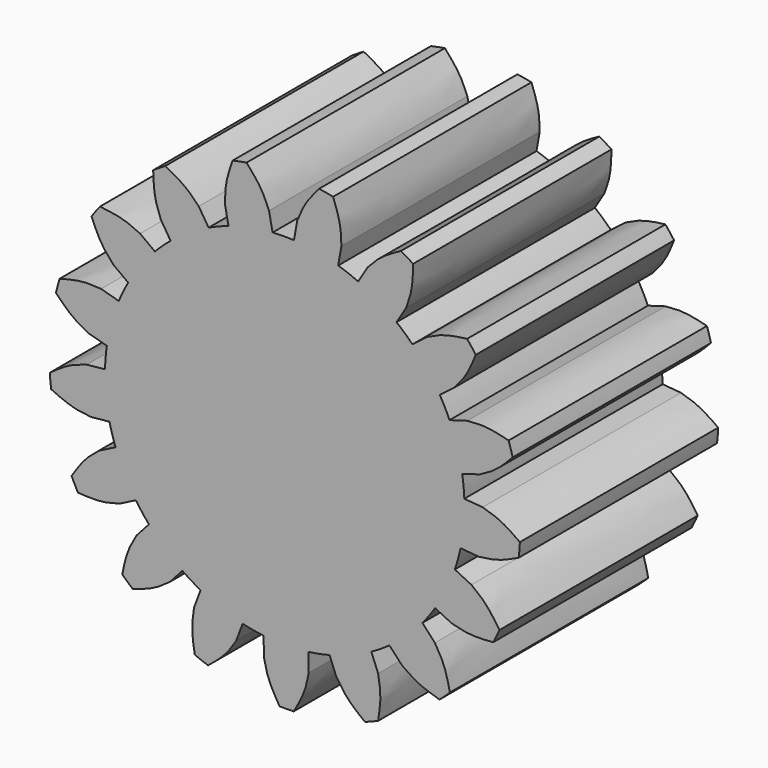
from build123d import *

# Parameters (mm, degrees)
F1_DEPTH = 25
F3_COUNT = 17
F4_DEPTH = 25


with BuildPart() as f1:
    # F0 (on Front) → F1 (new body)
    with BuildSketch(Plane.XZ):
        with BuildLine():
            add(Edge.make_bspline(
                [(-1.579642907, 19.9058898372), (-1.6117271892, 19.978475067), (-1.6986313414, 20.1750809257), (-2.0029837628, 20.9497765357), (-2.6554190206, 22.069680057), (-3.4281862346, 22.9560580116), (-3.8469371657, 23.4363728943)],
                knots=[0, 0, 0, 0, 0.1330072892, 0.3602663017, 0.6533379302, 1, 1, 1, 1], degree=3))
            ThreePointArc((-3.8469371657, 23.4363728943), (-4.5519149342, 23.3097097887), (-5.2527525556, 23.1618455782))
            add(Edge.make_bspline(
                [(-6.0252624513, 19.037750243), (-6.0228428036, 19.1170733926), (-6.0162888955, 19.3319297204), (-6.0257468099, 20.1642122641), (-5.8425661112, 21.4472946832), (-5.4600385098, 22.559278352), (-5.2527525556, 23.1618455782)],
                knots=[0, 0, 0, 0, 0.1330072892, 0.3602663017, 0.6533379302, 1, 1, 1, 1], degree=3))
            Line((-6.0252624513, 19.037750243), (-5.6694134652, 17.2154981328))
            ThreePointArc((-5.6694134652, 17.2154981328), (-3.4738298182, 17.7889890492), (-1.2237939209, 18.0836377269))
            Line((-1.2237939209, 18.0836377269), (-1.579642907, 19.9058898372))
        make_face()
    extrude(amount=F1_DEPTH)


with BuildPart() as f3_1:
    # F3: instance of F1
    add(f1.part.rotate(Axis((0, -18.5406561941, 0), (0, -1, 0)), 1 * 360 / F3_COUNT))


with BuildPart() as f3_2:
    # F3: instance of F1
    add(f1.part.rotate(Axis((0, -18.5406561941, 0), (0, -1, 0)), 2 * 360 / F3_COUNT))


with BuildPart() as f3_3:
    # F3: instance of F1
    add(f1.part.rotate(Axis((0, -18.5406561941, 0), (0, -1, 0)), 3 * 360 / F3_COUNT))


with BuildPart() as f3_4:
    # F3: instance of F1
    add(f1.part.rotate(Axis((0, -18.5406561941, 0), (0, -1, 0)), 4 * 360 / F3_COUNT))


with BuildPart() as f3_5:
    # F3: instance of F1
    add(f1.part.rotate(Axis((0, -18.5406561941, 0), (0, -1, 0)), 5 * 360 / F3_COUNT))


with BuildPart() as f3_6:
    # F3: instance of F1
    add(f1.part.rotate(Axis((0, -18.5406561941, 0), (0, -1, 0)), 6 * 360 / F3_COUNT))


with BuildPart() as f3_7:
    # F3: instance of F1
    add(f1.part.rotate(Axis((0, -18.5406561941, 0), (0, -1, 0)), 7 * 360 / F3_COUNT))


with BuildPart() as f3_8:
    # F3: instance of F1
    add(f1.part.rotate(Axis((0, -18.5406561941, 0), (0, -1, 0)), 8 * 360 / F3_COUNT))


with BuildPart() as f3_9:
    # F3: instance of F1
    add(f1.part.rotate(Axis((0, -18.5406561941, 0), (0, -1, 0)), 9 * 360 / F3_COUNT))


with BuildPart() as f3_10:
    # F3: instance of F1
    add(f1.part.rotate(Axis((0, -18.5406561941, 0), (0, -1, 0)), 10 * 360 / F3_COUNT))


with BuildPart() as f3_11:
    # F3: instance of F1
    add(f1.part.rotate(Axis((0, -18.5406561941, 0), (0, -1, 0)), 11 * 360 / F3_COUNT))


with BuildPart() as f3_12:
    # F3: instance of F1
    add(f1.part.rotate(Axis((0, -18.5406561941, 0), (0, -1, 0)), 12 * 360 / F3_COUNT))


with BuildPart() as f3_13:
    # F3: instance of F1
    add(f1.part.rotate(Axis((0, -18.5406561941, 0), (0, -1, 0)), 13 * 360 / F3_COUNT))


with BuildPart() as f3_14:
    # F3: instance of F1
    add(f1.part.rotate(Axis((0, -18.5406561941, 0), (0, -1, 0)), 14 * 360 / F3_COUNT))


with BuildPart() as f3_15:
    # F3: instance of F1
    add(f1.part.rotate(Axis((0, -18.5406561941, 0), (0, -1, 0)), 15 * 360 / F3_COUNT))


with BuildPart() as f3_16:
    # F3: instance of F1
    add(f1.part.rotate(Axis((0, -18.5406561941, 0), (0, -1, 0)), 16 * 360 / F3_COUNT))


with BuildPart() as f1_1:
    add(f1.part)

    add(f3_1.part)  # F4 merges F3_1

    add(f3_2.part)  # F4 merges F3_2

    add(f3_3.part)  # F4 merges F3_3

    add(f3_4.part)  # F4 merges F3_4

    add(f3_5.part)  # F4 merges F3_5

    add(f3_6.part)  # F4 merges F3_6

    add(f3_7.part)  # F4 merges F3_7

    add(f3_8.part)  # F4 merges F3_8

    add(f3_9.part)  # F4 merges F3_9

    add(f3_10.part)  # F4 merges F3_10

    add(f3_11.part)  # F4 merges F3_11

    add(f3_12.part)  # F4 merges F3_12

    add(f3_13.part)  # F4 merges F3_13

    add(f3_14.part)  # F4 merges F3_14

    add(f3_15.part)  # F4 merges F3_15

    add(f3_16.part)  # F4 merges F3_16
    # F0 (on Front) → F4 (join)
    with BuildSketch(Plane.XZ):
        with BuildLine():
            ThreePointArc((18.125, 0), (12.3760728865, 13.2419199857), (-1.2237939209, 18.0836377269))
            ThreePointArc((-1.2237939209, 18.0836377269), (-3.4738298182, 17.7889890492), (-5.6694134652, 17.2154981328))
            ThreePointArc((-5.6694134652, 17.2154981328), (-10.6244413016, -14.6845793957), (18.125, 0))
        make_face()
    extrude(amount=F4_DEPTH)


solid = f1_1.part
